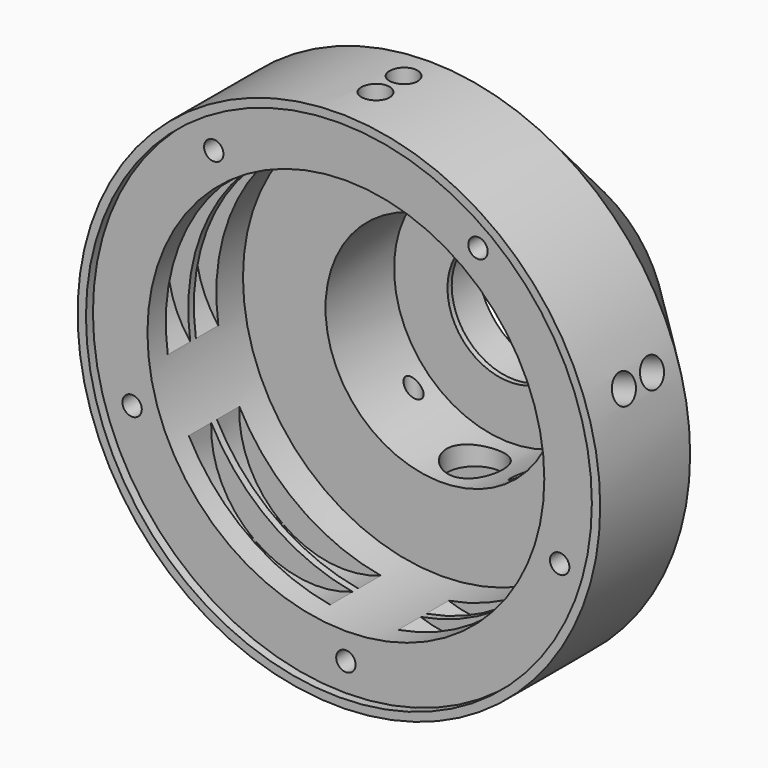
from build123d import *

# Parameters (mm, degrees)
F0_R      = 47.244
F1_DEPTH  = 20.32
F2_R      = 45.7327
F3_DEPTH  = 1.5748
F6_R      = 12.99972
F7_DEPTH  = 8.001
F8_R      = 35.8775
F9_DEPTH  = 21.59
F10_R     = 20.955
F11_DEPTH = 15.494
F12_R     = 11.303
F13_DEPTH = 25.4
F16_DEPTH = 25.4
F17_R     = 5.08
F17_R_2   = 1.4224
F18_DEPTH = 25.4
F19_R     = 1.7526
F20_DEPTH = 6.35
F24_DEPTH = 2.54
F26_DEPTH = 2.54
F27_R     = 2.54
F28_DEPTH = 50.8
F29_COUNT = 5
F29_ANGLE = 288


with BuildPart() as f1:
    # F0 (on Front) → F1 (new body)
    with BuildSketch(Plane.XZ):
        Circle(F0_R)
    extrude(amount=F1_DEPTH)

    # F2 (on face) → F3 (cut)
    with BuildSketch(Plane.XZ.offset(20.32)):
        Circle(F2_R)
    extrude(amount=-F3_DEPTH, mode=Mode.SUBTRACT)

    # F4 (on Right) → F5 (revolve)
    with BuildSketch(Plane.YZ):
        Polygon((0, 47.244), (0, 0), (27.305, 0), (27.305, 20.955), align=None)
    revolve(axis=Axis((0, 13.6525, 0), (0, 1, 0)))

    # F6 (on face) → F7 (cut)
    with BuildSketch(Plane(origin=(0, 27.305, 0), x_dir=(-1, 0, 0), z_dir=(0, 1, 0))):
        Circle(F6_R)
    extrude(amount=-F7_DEPTH, mode=Mode.SUBTRACT)

    # F8 (on face) → F9 (cut)
    with BuildSketch(Plane.XZ.offset(18.7452)):
        Circle(F8_R)
    extrude(amount=-F9_DEPTH, mode=Mode.SUBTRACT)

    # F10 (on face) → F11 (cut)
    with BuildSketch(Plane.XZ.offset(-2.8448)):
        Circle(F10_R)
    extrude(amount=-F11_DEPTH, mode=Mode.SUBTRACT)

    # F12 (on face) → F13 (cut)
    with BuildSketch(Plane(origin=(0, 19.304, 0), x_dir=(-1, 0, 0), z_dir=(0, 1, 0))):
        Circle(F12_R)
    extrude(amount=-F13_DEPTH, mode=Mode.SUBTRACT)

    # F15 (on offset) → F16 (cut)
    with BuildSketch(Plane.XY.offset(-24.13)):
        Polygon((59.5367178321, 16.764), (0, 16.764), (-59.5367178321, 16.764), (-59.5367178321, 4.064), (0, 4.064), (59.5367178321, 4.064), align=None)
    extrude(amount=-F16_DEPTH, mode=Mode.SUBTRACT)

    # F17 (on face) → F18 (cut)
    with BuildSketch(Plane(origin=(0, 0, -24.13), x_dir=(1, 0, 0), z_dir=(0, 0, -1))):
        with Locations((0, -10.4060036636)):
            Circle(F17_R)
        with Locations((11.0998, -6.4182036636)):
            Circle(F17_R_2)
        with Locations((-14.2748, -14.3938036636)):
            Circle(F17_R_2)
    extrude(amount=-F18_DEPTH, mode=Mode.SUBTRACT)

    # F19 (on face) → F20 (cut)
    with BuildSketch(Plane.XZ.offset(18.7452)):
        with Locations((0, -40.64)):
            Circle(F19_R)
        with Locations((-38.6509368356, -12.5584506103)):
            Circle(F19_R)
        with Locations((-23.8875925832, 32.8784507022)):
            Circle(F19_R)
        with Locations((23.8875927581, 32.8784505751)):
            Circle(F19_R)
        with Locations((38.6509367688, -12.5584508159)):
            Circle(F19_R)
    extrude(amount=-F20_DEPTH, mode=Mode.SUBTRACT)

    # F23 (on offset) → F24 (cut, symmetric)
    with BuildSketch(Plane.XZ.offset(12.065)):
        with BuildLine():
            ThreePointArc((-15.8214508625, 32.2005698529), (0, 35.8775), (15.8214508625, 32.2005698529))
            ThreePointArc((15.8214508625, 32.2005698529), (0, 40.64), (-15.8214508625, 32.2005698529))
        make_face()
        with BuildLine():
            ThreePointArc((-35.5136589793, -5.0965706269), (-34.1215301634, 11.0867572157), (-25.7354645949, 24.9976172532))
            ThreePointArc((-25.7354645949, 24.9976172532), (-38.6509368222, 12.5584506514), (-35.5136589793, -5.0965706269))
        make_face()
        with BuildLine():
            ThreePointArc((-6.1271974515, -35.3504237265), (-21.0882653891, -29.0255072157), (-31.7268426984, -16.7511927527))
            ThreePointArc((-31.7268426984, -16.7511927527), (-23.8875926532, -32.8784506514), (-6.1271974515, -35.3504237265))
        make_face()
        with BuildLine():
            ThreePointArc((31.7268426984, -16.7511927527), (21.0882653891, -29.0255072157), (6.1271974515, -35.3504237265))
            ThreePointArc((6.1271974515, -35.3504237265), (23.8875926532, -32.8784506514), (31.7268426984, -16.7511927527))
        make_face()
        with BuildLine():
            ThreePointArc((25.7354645949, 24.9976172532), (34.1215301634, 11.0867572157), (35.5136589793, -5.0965706269))
            ThreePointArc((35.5136589793, -5.0965706269), (38.6509368222, 12.5584506514), (25.7354645949, 24.9976172532))
        make_face()
    extrude(amount=F24_DEPTH, both=True, mode=Mode.SUBTRACT)

    # F25 (on offset) → F26 (cut, symmetric)
    with BuildSketch(Plane.XZ.offset(5.715)):
        with BuildLine():
            ThreePointArc((-15.8214508625, 32.2005698529), (0, 35.8775), (15.8214508625, 32.2005698529))
            ThreePointArc((15.8214508625, 32.2005698529), (0, 40.64), (-15.8214508625, 32.2005698529))
        make_face()
        with BuildLine():
            ThreePointArc((-35.5136589793, -5.0965706269), (-34.1215301634, 11.0867572157), (-25.7354645949, 24.9976172532))
            ThreePointArc((-25.7354645949, 24.9976172532), (-38.6509368222, 12.5584506514), (-35.5136589793, -5.0965706269))
        make_face()
        with BuildLine():
            ThreePointArc((-6.1271974515, -35.3504237265), (-21.0882653891, -29.0255072157), (-31.7268426984, -16.7511927527))
            ThreePointArc((-31.7268426984, -16.7511927527), (-23.8875926532, -32.8784506514), (-6.1271974515, -35.3504237265))
        make_face()
        with BuildLine():
            ThreePointArc((31.7268426984, -16.7511927527), (21.0882653891, -29.0255072157), (6.1271974515, -35.3504237265))
            ThreePointArc((6.1271974515, -35.3504237265), (23.8875926532, -32.8784506514), (31.7268426984, -16.7511927527))
        make_face()
        with BuildLine():
            ThreePointArc((25.7354645949, 24.9976172532), (34.1215301634, 11.0867572157), (35.5136589793, -5.0965706269))
            ThreePointArc((35.5136589793, -5.0965706269), (38.6509368222, 12.5584506514), (25.7354645949, 24.9976172532))
        make_face()
    extrude(amount=F26_DEPTH, both=True, mode=Mode.SUBTRACT)


with BuildPart() as f28:
    # F27 (on Top) → F28 (new body)
    with BuildSketch(Plane.XY):
        with Locations((0, -5.715)):
            Circle(F27_R)
    extrude(amount=F28_DEPTH)


with BuildPart() as f28b:
    # F27 (on Top) → F28, piece 2 (new body)
    with BuildSketch(Plane.XY):
        with Locations((0, -12.065)):
            Circle(F27_R)
    extrude(amount=F28_DEPTH)


with BuildPart() as f29_tool:
    # F29: F28b, F28 ×5 about axis
    f29_axis = Axis((0, -18.7452, 0), (0, -1, 0))
    for i in range(1, F29_COUNT):
        add(f28b.part.rotate(f29_axis, i * F29_ANGLE / (F29_COUNT - 1)))
        add(f28.part.rotate(f29_axis, i * F29_ANGLE / (F29_COUNT - 1)))


with BuildPart() as f1_1:
    add(f1.part)

    # F29: cut by f29_tool
    add(f29_tool.part, mode=Mode.SUBTRACT)


with BuildPart() as f28_1:
    add(f28.part)

    # F29: cut by f29_tool
    add(f29_tool.part, mode=Mode.SUBTRACT)


with BuildPart() as f28b_1:
    add(f28b.part)

    # F29: cut by f29_tool
    add(f29_tool.part, mode=Mode.SUBTRACT)


with BuildPart() as f1_2:
    add(f1_1.part)

    # F29#seed: cut F28b, F28
    add(f28b_1.part, mode=Mode.SUBTRACT)
    add(f28_1.part, mode=Mode.SUBTRACT)


solid = f1_2.part
